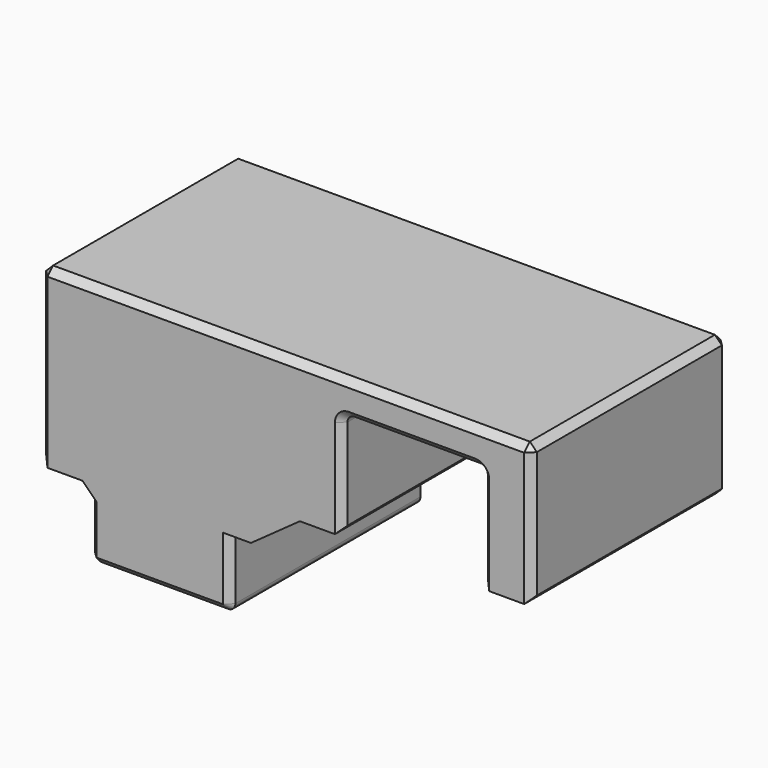
from build123d import *

# Parameters (mm, degrees)
F1_DEPTH = 17.5
F2_SIZE  = 1
F3_R     = 1
F4_SIZE  = 1


with BuildPart() as f1:
    # F0 (on Front) → F1 (new body, symmetric)
    with BuildSketch(Plane.XZ):
        Polygon((33.969838, 0), (40.969838, 0), (40.969838, 20), (-29.030162, 20), (-29.030162, -5), (-22.030162, -5), (-22.030162, -15), (-2.030162, -15), (-2.030162, -5), (0.98608, -5), (7.969838, 0), (13.969838, 0), (13.969838, 15), (33.969838, 15), align=None)
    extrude(amount=F1_DEPTH, both=True)

    # F2
    f2_edges = [f1.edges().sort_by_distance(p)[0] for p in [
        (40.969838, 0, 0),
        (40.969838, -17.5, 10),
        (40.969838, 0, 20),
        (40.969838, 17.5, 10),
        (5.969838, -17.5, 20),
        (5.969838, 17.5, 20),
        (-29.030162, 0, 20),
        (-29.030162, -17.5, 7.5),
        (-29.030162, 17.5, 7.5),
        (-29.030162, 0, -5),
        (-22.030162, 0, -5),
    ]]
    chamfer(f2_edges, length=F2_SIZE)

    # F3
    f3_edges = [f1.edges().sort_by_distance(p)[0] for p in [
        (-22.030162, 0, -15),
        (-2.030162, 0, -15),
        (13.969838, 0, 15),
        (33.969838, 0, 15),
    ]]
    fillet(f3_edges, radius=F3_R)

    # F4
    f4_edges = [f1.edges().sort_by_distance(p)[0] for p in [
        (33.969838, 0, 0),
        (36.969838, 17.5, 0),
        (13.969838, 0, 0),
        (23.969838, -17.5, 15),
        (23.969838, 17.5, 15),
        (-12.030162, 17.5, -15),
        (-12.030162, -17.5, -15),
    ]]
    chamfer(f4_edges, length=F4_SIZE)


solid = f1.part
